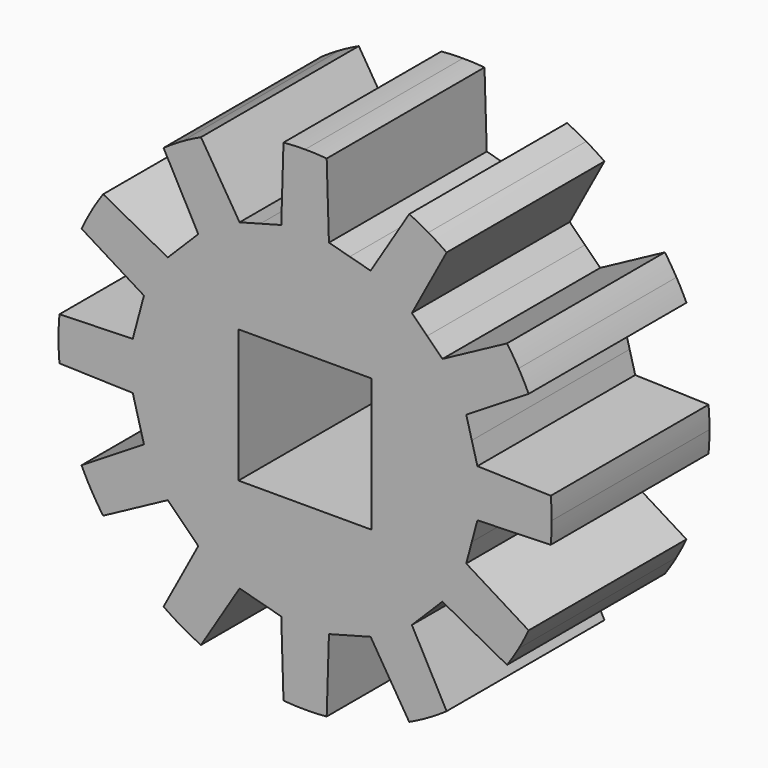
from build123d import *

# Parameters (mm, degrees)
F0_W     = 3.429
F0_H     = 3.429
F1_DEPTH = 5.08


with BuildPart() as f1:
    # F0 (on Front) → F1 (new body)
    with BuildSketch(Plane.XZ):
        with BuildLine():
            ThreePointArc((6.325593, -0.556216), (6.343895, -0.278375), (6.35, 0))
            ThreePointArc((6.35, 0), (6.343895, 0.278375), (6.325593, 0.556216))
            Line((6.325593, 0.556216), (4.437306, 0.613908))
            Line((4.437306, 0.613908), (4.29354, 1.150451))
            Line((4.29354, 1.150451), (4.149774, 1.686993))
            Line((4.149774, 1.686993), (5.756232, 2.6811))
            ThreePointArc((5.756232, 2.6811), (5.633162, 2.930867), (5.499261, 3.175))
            ThreePointArc((5.499261, 3.175), (5.354787, 3.413028), (5.200016, 3.644493))
            Line((5.200016, 3.644493), (3.535866, 2.750313))
            Line((3.535866, 2.750313), (3.14309, 3.14309))
            Line((3.14309, 3.14309), (2.750313, 3.535866))
            Line((2.750313, 3.535866), (3.644493, 5.200016))
            ThreePointArc((3.644493, 5.200016), (3.413028, 5.354787), (3.175, 5.499261))
            ThreePointArc((3.175, 5.499261), (2.930867, 5.633162), (2.6811, 5.756232))
            Line((2.6811, 5.756232), (1.686993, 4.149774))
            Line((1.686993, 4.149774), (1.150451, 4.29354))
            Line((1.150451, 4.29354), (0.613908, 4.437306))
            Line((0.613908, 4.437306), (0.556216, 6.325593))
            ThreePointArc((0.556216, 6.325593), (0.278375, 6.343895), (0, 6.35))
            ThreePointArc((0, 6.35), (-0.278375, 6.343895), (-0.556216, 6.325593))
            Line((-0.556216, 6.325593), (-0.613908, 4.437306))
            Line((-0.613908, 4.437306), (-1.150451, 4.29354))
            Line((-1.150451, 4.29354), (-1.686993, 4.149774))
            Line((-1.686993, 4.149774), (-2.6811, 5.756232))
            ThreePointArc((-2.6811, 5.756232), (-2.930867, 5.633162), (-3.175, 5.499261))
            ThreePointArc((-3.175, 5.499261), (-3.413028, 5.354787), (-3.644493, 5.200016))
            Line((-3.644493, 5.200016), (-2.750313, 3.535866))
            Line((-2.750313, 3.535866), (-3.14309, 3.14309))
            Line((-3.14309, 3.14309), (-3.535866, 2.750313))
            Line((-3.535866, 2.750313), (-5.200016, 3.644493))
            ThreePointArc((-5.200016, 3.644493), (-5.354787, 3.413028), (-5.499261, 3.175))
            ThreePointArc((-5.499261, 3.175), (-5.633162, 2.930867), (-5.756232, 2.6811))
            Line((-5.756232, 2.6811), (-4.149774, 1.686993))
            Line((-4.149774, 1.686993), (-4.29354, 1.150451))
            Line((-4.29354, 1.150451), (-4.437306, 0.613908))
            Line((-4.437306, 0.613908), (-6.325593, 0.556216))
            ThreePointArc((-6.325593, 0.556216), (-6.343895, 0.278375), (-6.35, 0))
            ThreePointArc((-6.35, 0), (-6.343895, -0.278375), (-6.325593, -0.556216))
            Line((-6.325593, -0.556216), (-4.437306, -0.613908))
            Line((-4.437306, -0.613908), (-4.29354, -1.150451))
            Line((-4.29354, -1.150451), (-4.149774, -1.686993))
            Line((-4.149774, -1.686993), (-5.756232, -2.6811))
            ThreePointArc((-5.756232, -2.6811), (-5.633162, -2.930867), (-5.499261, -3.175))
            ThreePointArc((-5.499261, -3.175), (-5.354787, -3.413028), (-5.200016, -3.644493))
            Line((-5.200016, -3.644493), (-3.535866, -2.750313))
            Line((-3.535866, -2.750313), (-3.14309, -3.14309))
            Line((-3.14309, -3.14309), (-2.750313, -3.535866))
            Line((-2.750313, -3.535866), (-3.644493, -5.200016))
            ThreePointArc((-3.644493, -5.200016), (-3.413028, -5.354787), (-3.175, -5.499261))
            ThreePointArc((-3.175, -5.499261), (-2.930867, -5.633162), (-2.6811, -5.756232))
            Line((-2.6811, -5.756232), (-1.686993, -4.149774))
            Line((-1.686993, -4.149774), (-1.150451, -4.29354))
            Line((-1.150451, -4.29354), (-0.613908, -4.437306))
            Line((-0.613908, -4.437306), (-0.556216, -6.325593))
            ThreePointArc((-0.556216, -6.325593), (-0.278375, -6.343895), (0, -6.35))
            ThreePointArc((0, -6.35), (0.278375, -6.343895), (0.556216, -6.325593))
            Line((0.556216, -6.325593), (0.613908, -4.437306))
            Line((0.613908, -4.437306), (1.150451, -4.29354))
            Line((1.150451, -4.29354), (1.686993, -4.149774))
            Line((1.686993, -4.149774), (2.6811, -5.756232))
            ThreePointArc((2.6811, -5.756232), (2.930867, -5.633162), (3.175, -5.499261))
            ThreePointArc((3.175, -5.499261), (3.413028, -5.354787), (3.644493, -5.200016))
            Line((3.644493, -5.200016), (2.750313, -3.535866))
            Line((2.750313, -3.535866), (3.14309, -3.14309))
            Line((3.14309, -3.14309), (3.535866, -2.750313))
            Line((3.535866, -2.750313), (5.200016, -3.644493))
            ThreePointArc((5.200016, -3.644493), (5.354787, -3.413028), (5.499261, -3.175))
            ThreePointArc((5.499261, -3.175), (5.633162, -2.930867), (5.756232, -2.6811))
            Line((5.756232, -2.6811), (4.149774, -1.686993))
            Line((4.149774, -1.686993), (4.29354, -1.150451))
            Line((4.29354, -1.150451), (4.437306, -0.613908))
            Line((4.437306, -0.613908), (6.325593, -0.556216))
        make_face()
        Rectangle(F0_W, F0_H, mode=Mode.SUBTRACT)
    extrude(amount=F1_DEPTH)


solid = f1.part
